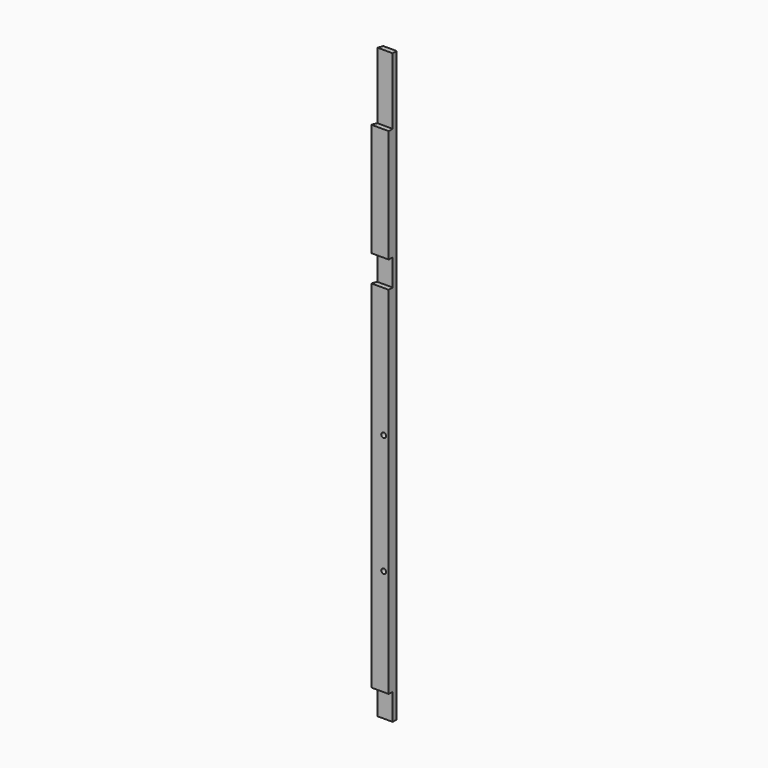
from build123d import *

# Parameters (mm, degrees)
F1_DEPTH = 1123.95
F2_W     = 122.435573
F2_H     = 50.8
F2_W_2   = 93.867282
F2_W_3   = 343.160421
F2_H_2   = 127
F3_DEPTH = 25.4
F4_R     = 0.79375
F5_DEPTH = 25.4
F6_R     = 4.7625
F7_DEPTH = 25.4


with BuildPart() as f1:
    # F0 (on Top) → F1 (new body)
    with BuildSketch(Plane.XY):
        Polygon((25.4, -9.525), (25.4, 9.525), (0, 9.525), (-7.890768, -9.525), align=None)
    extrude(amount=F1_DEPTH)

    # F2 (on Front) → F3 (cut)
    with BuildSketch(Plane.XZ):
        with Locations((22.446524, 25.4)):
            Rectangle(F2_W, F2_H)
        with Locations((2.720783, 755.65)):
            Rectangle(F2_W_2, F2_H)
        with Locations((-38.781822, 1060.45)):
            Rectangle(F2_W_3, F2_H_2)
    extrude(amount=F3_DEPTH, mode=Mode.SUBTRACT)

    # F4 (on Front) → F5 (cut)
    with BuildSketch(Plane.XZ):
        with Locations((12.7, 101.6)):
            Circle(F4_R)
        with Locations((12.7, 155.575)):
            Circle(F4_R)
        with Locations((12.7, 625.475)):
            Circle(F4_R)
        with Locations((12.7, 679.45)):
            Circle(F4_R)
        with Locations((-12.7, 625.475)):
            Circle(F4_R)
        with Locations((-12.7, 679.45)):
            Circle(F4_R)
        with Locations((-12.7, 101.6)):
            Circle(F4_R)
        with Locations((-12.7, 155.575)):
            Circle(F4_R)
    extrude(amount=-F5_DEPTH, mode=Mode.SUBTRACT)

    # F6 (on Front) → F7 (cut)
    with BuildSketch(Plane.XZ):
        with Locations((15.875, 254)):
            Circle(F6_R)
        with Locations((15.875, 482.6)):
            Circle(F6_R)
    extrude(amount=F7_DEPTH, mode=Mode.SUBTRACT)


solid = f1.part
